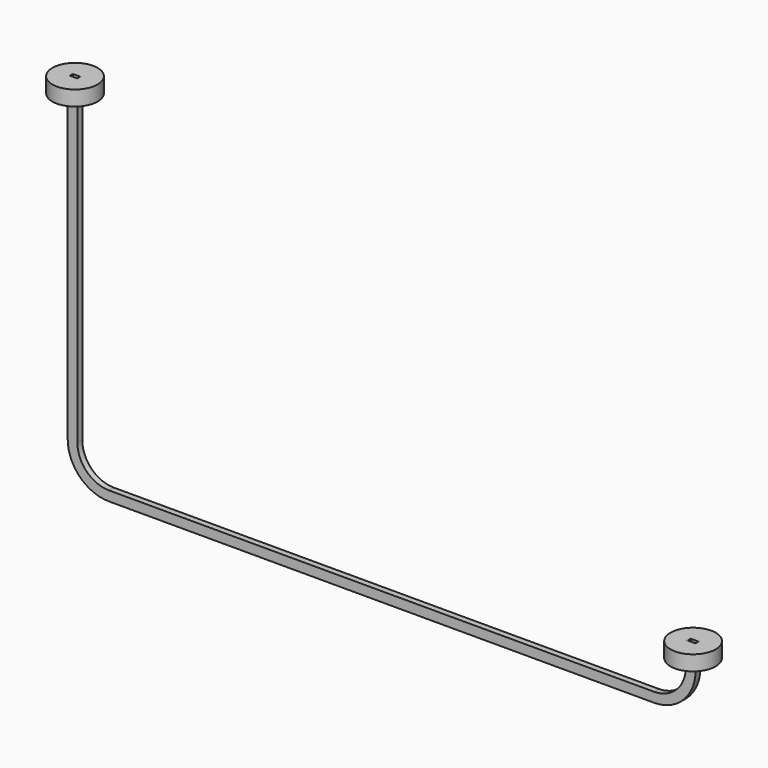
from build123d import *

# Parameters (mm, degrees)
F3_W     = 4.1
F3_H     = 2.55
F3_W_2   = 3.1
F3_H_2   = 1.55
F3_R     = 9.525
F5_DEPTH = 6.35
F1_R     = 9.525
F1_W     = 4.1
F1_H     = 2.55
F6_DEPTH = 6.35


with BuildPart() as f4:
    # F4: sweep along a path in F0
    with BuildLine(Plane.XZ) as f4_path:
        Line((-260.8, 125), (-260.8, 0))
        Line((-260.8, 0), (-260.8, -10))
        ThreePointArc((-260.8, -10), (-256.289444, -20.889444), (-245.4, -25.4))
        Line((-245.4, -25.4), (-235.4, -25.4))
        Line((-235.4, -25.4), (-25.4, -25.4))
        Line((-25.4, -25.4), (-15.4, -25.4))
        ThreePointArc((-15.4, -25.4), (-4.510556, -20.889444), (0, -10))
        Line((0, -10), (0, 0))
    # F3 (on offset) → F4 (sweep)
    with BuildSketch(Plane.XY.offset(125)):
        with Locations((-260.8, 0)):
            Rectangle(F3_W, F3_H)
        with Locations((-260.8, 0)):
            Rectangle(F3_W_2, F3_H_2, mode=Mode.SUBTRACT)
    sweep(path=f4_path.line)

    # F3 (on offset) → F5 (join)
    with BuildSketch(Plane.XY.offset(125)):
        with Locations((-260.8, 0)):
            Circle(F3_R)
        with Locations((-260.8, 0)):
            Rectangle(F3_W, F3_H, mode=Mode.SUBTRACT)
    extrude(amount=-F5_DEPTH)

    # F1 (on Top) → F6 (join)
    with BuildSketch(Plane.XY):
        Circle(F1_R)
        Rectangle(F1_W, F1_H, mode=Mode.SUBTRACT)
    extrude(amount=-F6_DEPTH)


solid = f4.part
